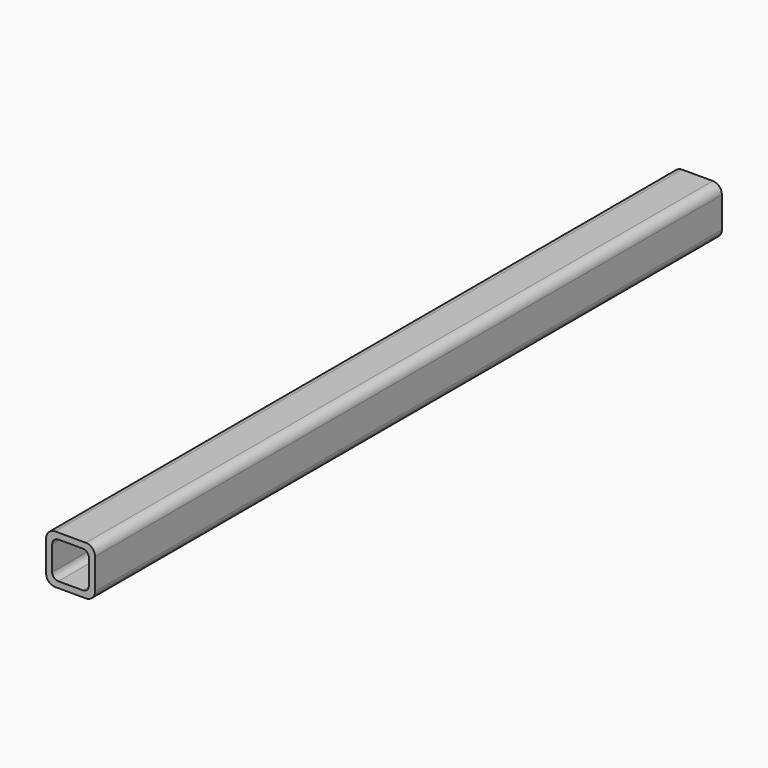
from build123d import *

# Parameters (mm, degrees)
F1_DEPTH = 203.2


with BuildPart() as f1:
    # F0 (on Front) → F1 (new body)
    with BuildSketch(Plane.XZ):
        with BuildLine():
            ThreePointArc((10.071912, -2.38125), (9.37446, -0.697452), (7.690662, 0))
            Line((7.690662, 0), (-0.246838, 0))
            ThreePointArc((-0.246838, 0), (-1.930636, -0.697452), (-2.628088, -2.38125))
            Line((-2.628088, -2.38125), (-2.628088, -10.31875))
            ThreePointArc((-2.628088, -10.31875), (-1.930636, -12.002548), (-0.246838, -12.7))
            Line((-0.246838, -12.7), (7.690662, -12.7))
            ThreePointArc((7.690662, -12.7), (9.37446, -12.002548), (10.071912, -10.31875))
            Line((10.071912, -10.31875), (10.071912, -2.38125))
        make_face()
        with BuildLine():
            Line((0.546912, -1.5875), (6.896912, -1.5875))
            ThreePointArc((6.896912, -1.5875), (8.019444, -2.052468), (8.484412, -3.175))
            Line((8.484412, -3.175), (8.484412, -9.525))
            ThreePointArc((8.484412, -9.525), (8.019444, -10.647532), (6.896912, -11.1125))
            Line((6.896912, -11.1125), (0.546912, -11.1125))
            ThreePointArc((0.546912, -11.1125), (-0.57562, -10.647532), (-1.040588, -9.525))
            Line((-1.040588, -9.525), (-1.040588, -3.175))
            ThreePointArc((-1.040588, -3.175), (-0.57562, -2.052468), (0.546912, -1.5875))
        make_face(mode=Mode.SUBTRACT)
    extrude(amount=F1_DEPTH)


solid = f1.part
